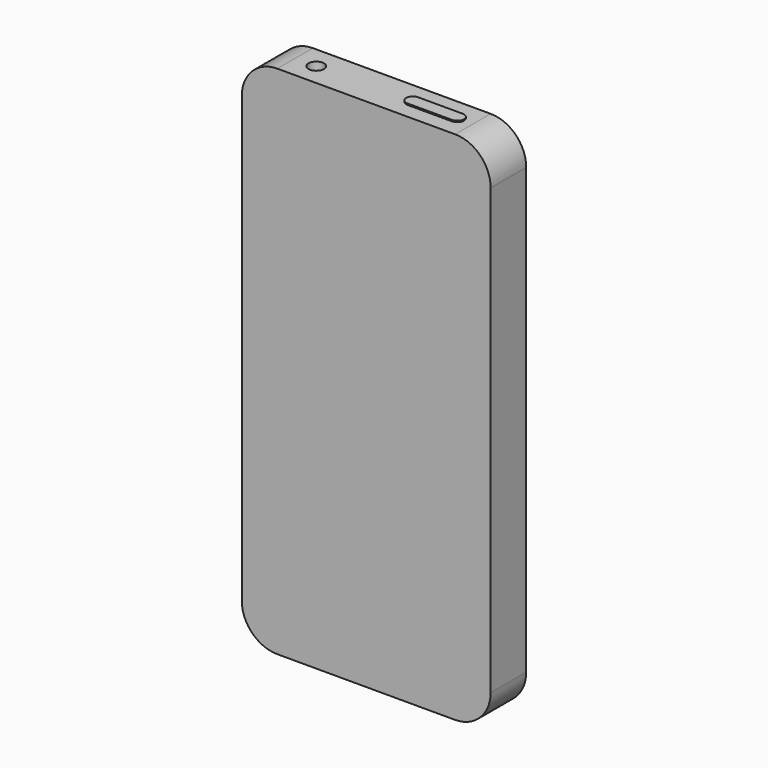
from build123d import *

# Parameters (mm, degrees)
F0_W     = 56
F0_H     = 116
F1_DEPTH = 5
F2_R     = 8
F3_R     = 1.75
F4_DEPTH = 13
F5_W     = 9.9999913867
F5_H     = 3
F6_DEPTH = 0.3


with BuildPart() as f1:
    # F0 (on Front) → F1 (new body, symmetric)
    with BuildSketch(Plane.XZ):
        Rectangle(F0_W, F0_H)
    extrude(amount=F1_DEPTH, both=True)

    # F2
    f2_edges = [f1.edges().sort_by_distance(p)[0] for p in [
        (-28, 0, 58),
        (28, 0, 58),
        (28, 0, -58),
        (-28, 0, -58),
    ]]
    fillet(f2_edges, radius=F2_R)

    # F3 (on face) → F4 (cut)
    with BuildSketch(Plane.XY.offset(58)):
        with Locations((-15.25, 0)):
            Circle(F3_R)
    extrude(amount=-F4_DEPTH, mode=Mode.SUBTRACT)

    # F5 (on face) → F6 (join)
    with BuildSketch(Plane.XY.offset(58)):
        with Locations((11.5000043066, 0)):
            Rectangle(F5_W, F5_H)
        with BuildLine():
            Line((6.5000086133, -1.5), (6.5000086133, 1.5))
            ThreePointArc((6.5000086133, 1.5), (5.0000086133, 0), (6.5000086133, -1.5))
        make_face()
        with BuildLine():
            ThreePointArc((16.5, -1.5), (18, 0), (16.5, 1.5))
            Line((16.5, 1.5), (16.5, -1.5))
        make_face()
    extrude(amount=F6_DEPTH)


solid = f1.part
